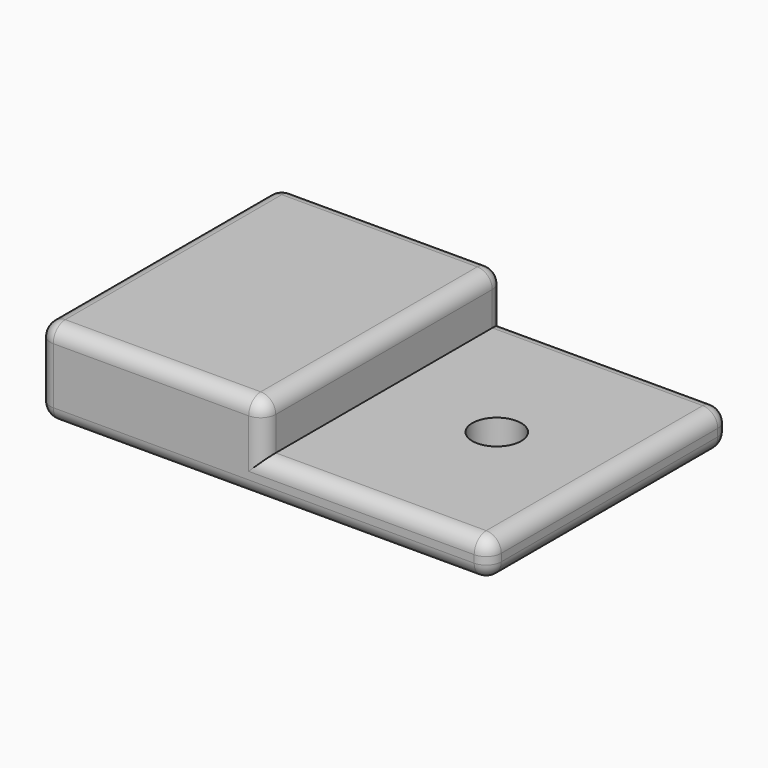
from build123d import *

# Parameters (mm, degrees)
F1_DEPTH = 40
F3_D     = 6.5
F3_DEPTH = 30
F4_R     = 2


with BuildPart() as f1:
    # F0 (on Front) → F1 (new body)
    with BuildSketch(Plane.XZ):
        Polygon((0, 11.5), (0, 0), (60, 0), (60, 5), (30, 5), (30, 11.5), align=None)
    extrude(amount=F1_DEPTH)

    # F3
    with Locations(Plane.XY.offset(5)):
        with Locations((45, -20)):
            Hole(F3_D / 2, depth=F3_DEPTH)

    # F4
    f4_edges = [f1.edges().sort_by_distance(p)[0] for p in [
        (0, -20, 11.5),
        (15, -40, 11.5),
        (30, -20, 11.5),
        (15, 0, 11.5),
        (0, 0, 5.75),
        (0, -40, 5.75),
        (30, -40, 8.25),
        (30, 0, 8.25),
        (45, -40, 5),
        (60, -20, 5),
        (45, 0, 5),
        (60, -40, 2.5),
        (60, 0, 2.5),
        (30, -40, 0),
        (0, -20, 0),
        (30, 0, 0),
        (60, -20, 0),
    ]]
    fillet(f4_edges, radius=F4_R)


solid = f1.part
